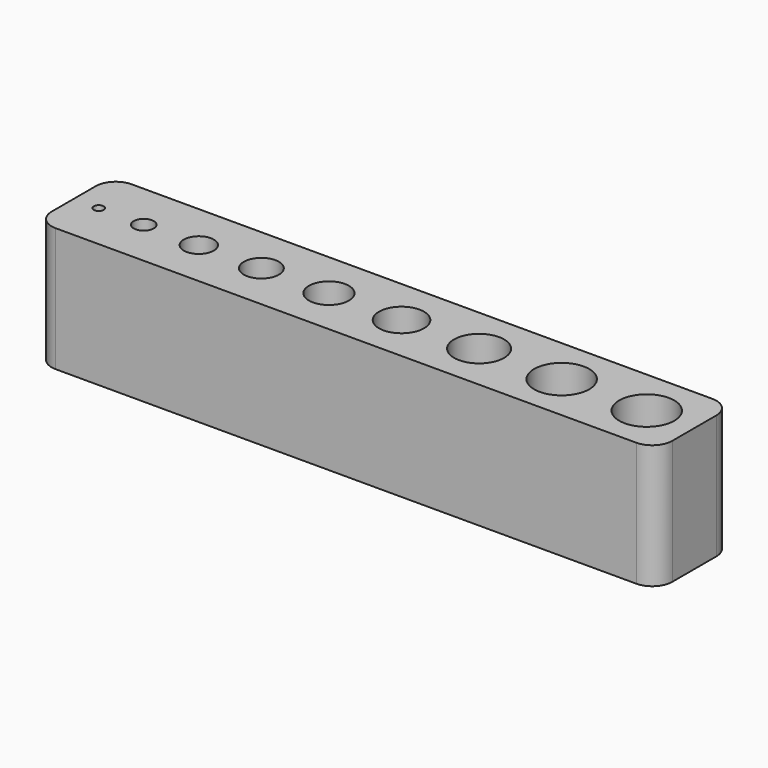
from build123d import *

# Parameters (mm, degrees)
F0_W          = 62
F0_H          = 9.5
F0_R          = 0.5
F0_R_2        = 1
F0_R_3        = 1.5
F0_R_4        = 1.75
F0_R_5        = 2
F0_R_6        = 2.25
F0_R_7        = 2.5
F0_R_8        = 2.75
F1_DEPTH      = 12
F1_DEPTH_BACK = 0.4
F2_DEPTH      = 0.4
F3_R          = 2


with BuildPart() as f1:
    # F0 (on Top) → F1 (new body, two sides)
    with BuildSketch(Plane.XY) as f1_sk:
        with Locations((-1.75, 0)):
            Rectangle(F0_W, F0_H)
        with Locations((-30.25, 0)):
            Circle(F0_R, mode=Mode.SUBTRACT)
        with Locations((-25.75, 0)):
            Circle(F0_R_2, mode=Mode.SUBTRACT)
        with Locations((-20.25, 0)):
            Circle(F0_R_3, mode=Mode.SUBTRACT)
        with Locations((-14, 0)):
            Circle(F0_R_4, mode=Mode.SUBTRACT)
        with Locations((-7.25, 0)):
            Circle(F0_R_5, mode=Mode.SUBTRACT)
        Circle(F0_R_6, mode=Mode.SUBTRACT)
        with Locations((7.75, 0)):
            Circle(F0_R_7, mode=Mode.SUBTRACT)
        with Locations((16, 0)):
            Circle(F0_R_8, mode=Mode.SUBTRACT)
        with Locations((24.5, 0)):
            Circle(F0_R_8, mode=Mode.SUBTRACT)
    extrude(amount=F1_DEPTH)
    extrude(f1_sk.sketch, amount=-F1_DEPTH_BACK)

    # F0 (on Top) → F2 (join)
    with BuildSketch(Plane.XY):
        with Locations((-25.75, 0)):
            Circle(F0_R_2)
        with Locations((-20.25, 0)):
            Circle(F0_R_3)
        with Locations((-30.25, 0)):
            Circle(F0_R)
        with Locations((-14, 0)):
            Circle(F0_R_4)
        with Locations((-7.25, 0)):
            Circle(F0_R_5)
        Circle(F0_R_6)
        with Locations((7.75, 0)):
            Circle(F0_R_7)
        with Locations((16, 0)):
            Circle(F0_R_8)
        with Locations((24.5, 0)):
            Circle(F0_R_8)
    extrude(amount=-F2_DEPTH)

    # F3
    f3_edges = [f1.edges().sort_by_distance(p)[0] for p in [
        (-32.75, -4.75, 5.8),
        (29.25, -4.75, 5.8),
        (29.25, 4.75, 5.8),
        (-32.75, 4.75, 5.8),
    ]]
    fillet(f3_edges, radius=F3_R)


solid = f1.part
